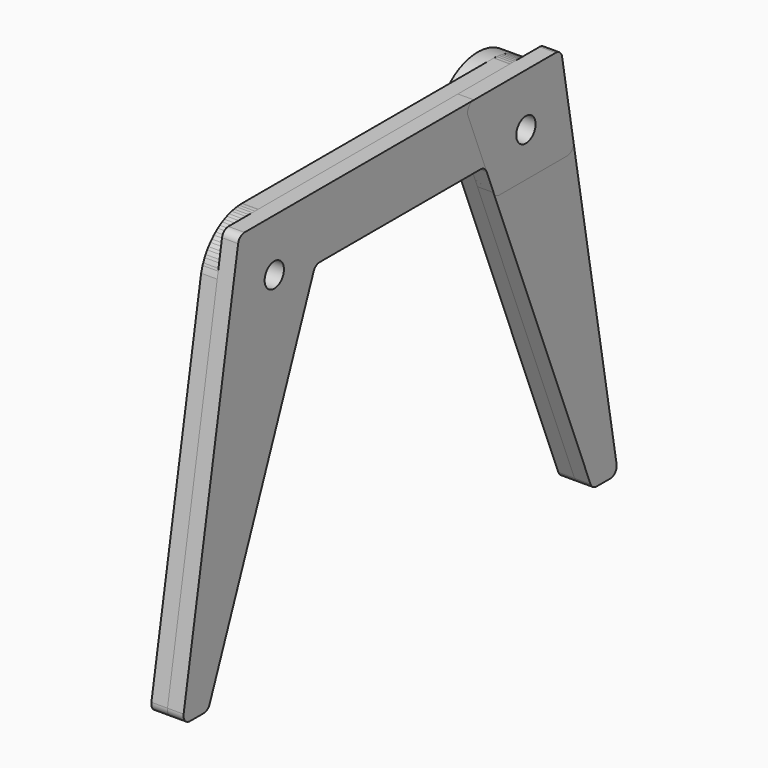
from build123d import *

# Parameters (mm, degrees)
F5_DEPTH  = 2
F7_DEPTH  = 2
F9_DEPTH  = 2
F3_R      = 1.5
F11_DEPTH = 12.5
F12_R     = 6.5285293344
F12_R_2   = 1.5
F13_DEPTH = 2
F4_R      = 1.5
F14_DEPTH = 2


with BuildPart() as f5:
    # F0 (on Right) → F5 (new body)
    with BuildSketch(Plane.YZ):
        with BuildLine():
            Line((33.6094031958, -44.8263518223), (25.1457081218, 3.1736481777))
            ThreePointArc((25.1457081218, 3.1736481777), (24.8036879785, 3.7660444431), (24.1609003688, 4))
            Line((24.1609003688, 4), (10, 4))
            Line((10, 4), (0, 4))
            Line((0, 4), (0, -4))
            Line((0, -4), (12.491268584, -4))
            ThreePointArc((12.491268584, -4), (13.0532093409, -4.1728225186), (13.420918064, -4.6315548285))
            Line((13.420918064, -4.6315548285), (29.5660468171, -45.3684451715))
            ThreePointArc((29.5660468171, -45.3684451715), (29.9337555402, -45.8271774814), (30.4956962971, -46))
            Line((30.4956962971, -46), (32.6245954428, -46))
            ThreePointArc((32.6245954428, -46), (33.3906398859, -45.6427876097), (33.6094031958, -44.8263518223))
        make_face()
    extrude(amount=F5_DEPTH)

    # F6: F5 across plane


with BuildPart() as f5_1:
    add(f5.part)
    add(f5.part.mirror(Plane.XZ))


with BuildPart() as f7:
    # F1 (on Right) → F7 (new body)
    with BuildSketch(Plane.YZ):
        with BuildLine():
            Line((33.6094031958, -44.8263518223), (25.8916958863, -1.0570586688))
            ThreePointArc((25.8916958863, -1.0570586688), (23.5941077402, 2.5816680529), (19.531155866, 4))
            Line((19.531155866, 4), (10, 4))
            Line((10, 4), (0, 4))
            Line((0, 4), (0, -4))
            Line((0, -4), (12.491268584, -4))
            ThreePointArc((12.491268584, -4), (13.0532093409, -4.1728225186), (13.420918064, -4.6315548285))
            Line((13.420918064, -4.6315548285), (29.5660468171, -45.3684451715))
            ThreePointArc((29.5660468171, -45.3684451715), (29.9337555402, -45.8271774814), (30.4956962971, -46))
            Line((30.4956962971, -46), (32.6245954428, -46))
            ThreePointArc((32.6245954428, -46), (33.3906398859, -45.6427876097), (33.6094031958, -44.8263518223))
        make_face()
    extrude(amount=-F7_DEPTH)

    # F8: F7 across plane


with BuildPart() as f7_1:
    add(f7.part)
    add(f7.part.mirror(Plane.XZ))


with BuildPart() as f9:
    # F2 (on Right) → F9 (new body)
    with BuildSketch(Plane.YZ):
        with BuildLine():
            Line((33.6094031958, -44.8263518223), (25.8916958863, -1.0570586688))
            ThreePointArc((25.8916958863, -1.0570586688), (18.0596852004, 3.8320106859), (13.1706158457, -4))
            Line((13.1706158457, -4), (29.5660468171, -45.3684451715))
            ThreePointArc((29.5660468171, -45.3684451715), (29.9337555402, -45.8271774814), (30.4956962971, -46))
            Line((30.4956962971, -46), (32.6245954428, -46))
            ThreePointArc((32.6245954428, -46), (33.3906398859, -45.6427876097), (33.6094031958, -44.8263518223))
        make_face()
    extrude(amount=-F9_DEPTH)


with BuildPart() as f10_1:
    # F10: instance of F9
    add(f9.part.mirror(Plane.XZ))


with BuildPart() as f11_tool:
    # F3 (on Right) → F11 (new body, symmetric)
    with BuildSketch(Plane.YZ):
        with Locations((19.531155866, -2.5285293344)):
            Circle(F3_R)
        with Locations((-19.531155866, -2.5285293344)):
            Circle(F3_R)
    extrude(amount=F11_DEPTH, both=True)


with BuildPart() as f5_2:
    add(f5_1.part)

    # F11: cut by f11_tool
    add(f11_tool.part, mode=Mode.SUBTRACT)


with BuildPart() as f7_2:
    add(f7_1.part)

    # F11: cut by f11_tool
    add(f11_tool.part, mode=Mode.SUBTRACT)


with BuildPart() as f9_1:
    add(f9.part)

    # F11: cut by f11_tool
    add(f11_tool.part, mode=Mode.SUBTRACT)


with BuildPart() as f10_1_1:
    add(f10_1.part)

    # F11: cut by f11_tool
    add(f11_tool.part, mode=Mode.SUBTRACT)


with BuildPart() as f13:
    # F12 (on face) → F13 (new body)
    with BuildSketch(Plane(origin=(-2, 0, 0), x_dir=(0, -1, 0), z_dir=(-1, 0, 0))):
        with Locations((-19.531155866, -2.5285293344)):
            Circle(F12_R)
        with Locations((-19.531155866, -2.5285293344)):
            Circle(F12_R_2, mode=Mode.SUBTRACT)
    extrude(amount=F13_DEPTH)


with BuildPart() as f14:
    # F4 (on Right) → F14 (new body)
    with BuildSketch(Plane.YZ):
        with BuildLine():
            Line((26.9089779289, -6.8263518223), (25.8916958863, -1.0570586688))
            Line((25.8916958863, -1.0570586688), (25.1457081218, 3.1736481777))
            ThreePointArc((25.1457081218, 3.1736481777), (24.8036879785, 3.7660444431), (24.1609003688, 4))
            Line((24.1609003688, 4), (19.531155866, 4))
            Line((19.531155866, 4), (11.4720012231, 4))
            ThreePointArc((11.4720012231, 4), (10.6448237416, 3.5619407569), (10.5423517431, 2.6315548285))
            Line((10.5423517431, 2.6315548285), (13.1706158457, -4))
            Line((13.1706158457, -4), (14.5056215502, -7.3684451715))
            ThreePointArc((14.5056215502, -7.3684451715), (14.8733302733, -7.8271774814), (15.4352710301, -8))
            Line((15.4352710301, -8), (25.9241701759, -8))
            ThreePointArc((25.9241701759, -8), (26.690214619, -7.6427876097), (26.9089779289, -6.8263518223))
        make_face()
        with Locations((19.531155866, -2.5285293344)):
            Circle(F4_R, mode=Mode.SUBTRACT)
    extrude(amount=F14_DEPTH)


solid = Compound([f5_2.part, f7_2.part, f9_1.part, f10_1_1.part, f13.part, f14.part])
